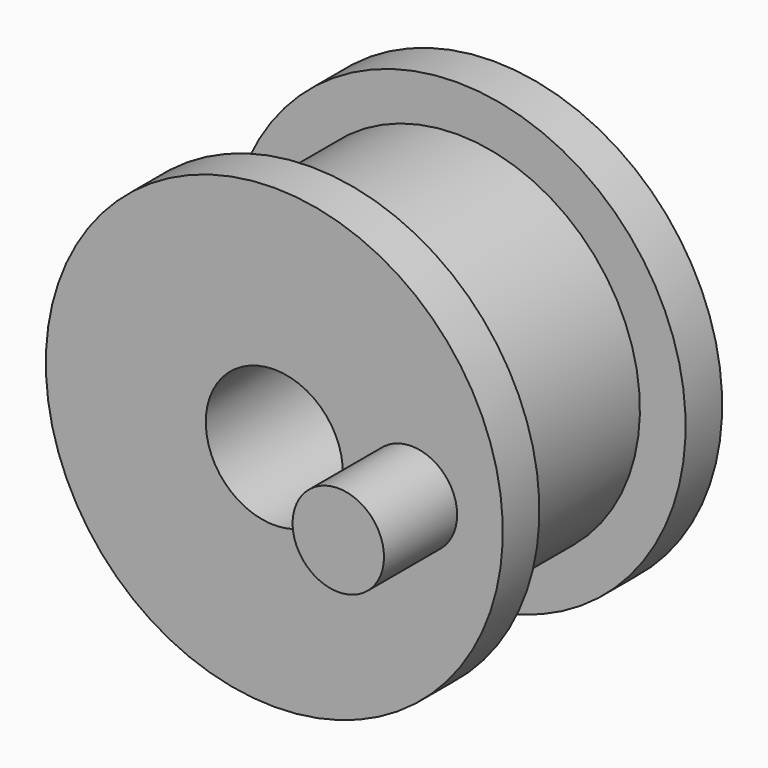
from build123d import *

# Parameters (mm, degrees)
F0_W     = 12.7
F0_H     = 7.9375
F2_R     = 3.175
F3_DEPTH = 6.35


with BuildPart() as f1:
    # F0 (on Right) → F1 (revolve)
    with BuildSketch(Plane.YZ):
        Polygon((15.875, 12.7), (15.875, 4.7625), (19.05, 4.7625), (19.05, 15.875), (15.875, 15.875), align=None)
        with Locations((9.525, 8.73125)):
            Rectangle(F0_W, F0_H)
        Polygon((0, 15.875), (0, 4.7625), (3.175, 4.7625), (3.175, 12.7), (3.175, 15.875), align=None)
    revolve(axis=Axis((0, 9.525, 0), (0, 1, 0)))

    # F2 (on Front) → F3 (join)
    with BuildSketch(Plane.XZ):
        with Locations((9.525, 0)):
            Circle(F2_R)
    extrude(amount=F3_DEPTH)


solid = f1.part
